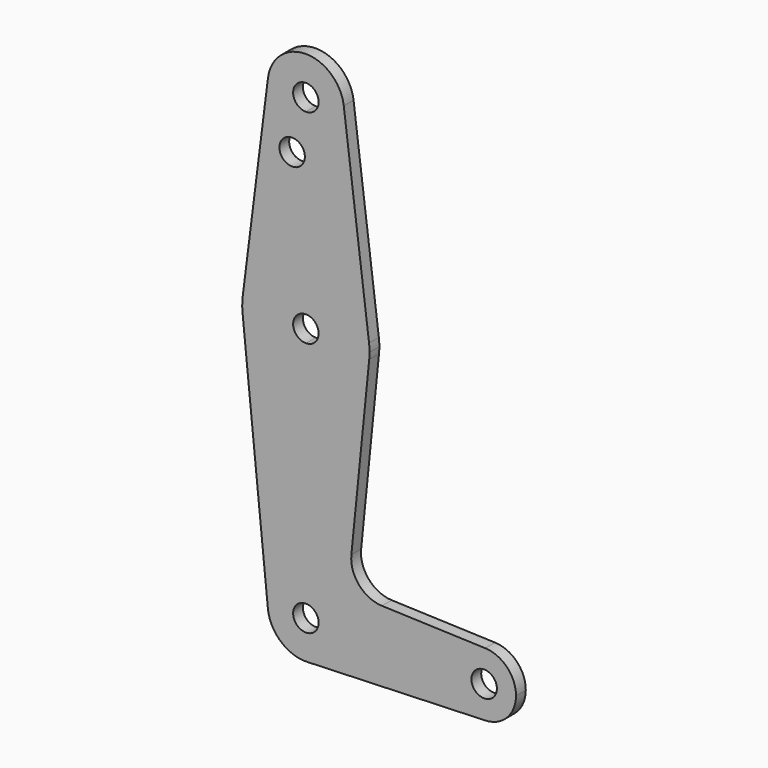
from build123d import *

# Parameters (mm, degrees)
F0_R     = 3.175
F1_DEPTH = 3.048
F2_DEPTH = 3.048


with BuildPart() as f1:
    # F0 (on Front) → F1 (new body)
    with BuildSketch(Plane.XZ):
        with BuildLine():
            ThreePointArc((-9.4502929642, 115.490625), (-7.14375, 107.9998046905), (0, 104.775))
            ThreePointArc((0, 104.775), (6.7351920908, 107.5648079092), (9.525, 114.3))
            ThreePointArc((9.525, 114.3), (9.5063048942, 114.896483242), (9.4502929642, 115.490625))
            ThreePointArc((9.4502929642, 115.490625), (0, 123.825), (-9.4502929642, 115.490625))
        make_face()
        with BuildLine():
            ThreePointArc((3.175, 114.3), (2.2450640303, 112.0549359697), (0, 111.125))
            ThreePointArc((0, 111.125), (-2.2450640303, 116.5450640303), (3.175, 114.3))
        make_face(mode=Mode.SUBTRACT)
        with BuildLine():
            ThreePointArc((9.525, 114.3), (6.7351920908, 107.5648079092), (0, 104.775))
            Line((0, 104.775), (0, 79.375))
            ThreePointArc((0, 79.375), (10.5003255158, 75.40625), (15.7504882737, 65.484375))
            Line((15.7504882737, 65.484375), (9.4502929642, 115.490625))
            ThreePointArc((9.4502929642, 115.490625), (9.5063048942, 114.896483242), (9.525, 114.3))
        make_face()
        with BuildLine():
            Line((0, 79.375), (0, 104.775))
            ThreePointArc((0, 104.775), (-7.14375, 107.9998046905), (-9.4502929642, 115.490625))
            Line((-9.4502929642, 115.490625), (-15.7504882737, 65.484375))
            ThreePointArc((-15.7504882737, 65.484375), (-10.5003255158, 75.40625), (0, 79.375))
        make_face()
        with Locations((-3.4237490036, 101.1682)):
            Circle(F0_R, mode=Mode.SUBTRACT)
        with BuildLine():
            ThreePointArc((15.7504882737, 65.484375), (10.5003255158, 75.40625), (0, 79.375))
            Line((0, 79.375), (0, 66.675))
            ThreePointArc((0, 66.675), (2.2450640303, 65.7450640303), (3.175, 63.5))
            ThreePointArc((3.175, 63.5), (2.2450640303, 61.2549359697), (0, 60.325))
            Line((0, 60.325), (0, 47.625))
            ThreePointArc((0, 47.625), (10.6492737428, 51.7267849017), (15.7954255641, 61.9125))
            ThreePointArc((15.7954255641, 61.9125), (15.8550939106, 62.7052534459), (15.875, 63.5))
            ThreePointArc((15.875, 63.5), (15.8438414904, 64.4941387366), (15.7504882737, 65.484375))
        make_face()
        with BuildLine():
            Line((0, 66.675), (0, 79.375))
            ThreePointArc((0, 79.375), (-10.5003255158, 75.40625), (-15.7504882737, 65.484375))
            ThreePointArc((-15.7504882737, 65.484375), (-15.8737438155, 63.6997054867), (-15.7954255641, 61.9125))
            ThreePointArc((-15.7954255641, 61.9125), (-10.6492737428, 51.7267849017), (0, 47.625))
            Line((0, 47.625), (0, 60.325))
            ThreePointArc((0, 60.325), (-3.175, 63.5), (0, 66.675))
        make_face()
        with BuildLine():
            ThreePointArc((0, 47.625), (-10.6492737428, 51.7267849017), (-15.7954255641, 61.9125))
            Line((-15.7954255641, 61.9125), (-9.4772553384, -0.9525))
            ThreePointArc((-9.4772553384, -0.9525), (-7.063929059, 6.3895642457), (0, 9.525))
            Line((0, 9.525), (0, 47.625))
        make_face()
        with BuildLine():
            ThreePointArc((15.7954255641, 61.9125), (10.6492737428, 51.7267849017), (0, 47.625))
            Line((0, 47.625), (0, 9.525))
            ThreePointArc((0, 9.525), (6.7351920908, 6.7351920908), (9.525, 0))
            Line((9.525, 0), (36.5125, 0))
            ThreePointArc((36.5125, 0), (38.9384772185, 5.7120069047), (44.7334821429, 7.9324362036))
            Line((44.7334821429, 7.9324362036), (18.9676000005, 8.8532337108))
            ThreePointArc((18.9676000005, 8.8532337108), (13.2611998974, 11.5713591498), (11.3411865923, 17.5933818124))
            Line((11.3411865923, 17.5933818124), (15.7954255641, 61.9125))
        make_face()
        with BuildLine():
            ThreePointArc((0, 9.525), (-7.063929059, 6.3895642457), (-9.4772553384, -0.9525))
            ThreePointArc((-9.4772553384, -0.9525), (-6.2623833816, -7.1769199091), (0.3401785714, -9.5189234444))
            ThreePointArc((0.3401785714, -9.5189234444), (6.8544082857, -6.6138273378), (9.525, 0))
            Line((9.525, 0), (3.175, 0))
            ThreePointArc((3.175, 0), (-2.2450640303, -2.2450640303), (0, 3.175))
            Line((0, 3.175), (0, 9.525))
        make_face()
        with BuildLine():
            ThreePointArc((9.525, 0), (6.8544082857, -6.6138273378), (0.3401785714, -9.5189234444))
            Line((0.3401785714, -9.5189234444), (44.7334821429, -7.9324362036))
            ThreePointArc((44.7334821429, -7.9324362036), (38.9384772185, -5.7120069047), (36.5125, 0))
            Line((36.5125, 0), (9.525, 0))
        make_face()
        with BuildLine():
            ThreePointArc((36.5125, 0), (38.9384772185, -5.7120069047), (44.7334821429, -7.9324362036))
            ThreePointArc((44.7334821429, -7.9324362036), (50.1620069047, -5.5115227815), (52.3875, 0))
            ThreePointArc((52.3875, 0), (50.1620069047, 5.5115227815), (44.7334821429, 7.9324362036))
            ThreePointArc((44.7334821429, 7.9324362036), (38.9384772185, 5.7120069047), (36.5125, 0))
        make_face()
        with BuildLine():
            ThreePointArc((47.625, 0), (44.45, -3.175), (41.275, 0))
            ThreePointArc((41.275, 0), (44.45, 3.175), (47.625, 0))
        make_face(mode=Mode.SUBTRACT)
    extrude(amount=F1_DEPTH)

    # F0 (on Front) → F2 (join)
    with BuildSketch(Plane.XZ):
        with BuildLine():
            ThreePointArc((9.525, 0), (6.7351920908, 6.7351920908), (0, 9.525))
            Line((0, 9.525), (0, 3.175))
            ThreePointArc((0, 3.175), (2.2450640303, 2.2450640303), (3.175, 0))
            Line((3.175, 0), (9.525, 0))
        make_face()
    extrude(amount=F2_DEPTH)


solid = f1.part
